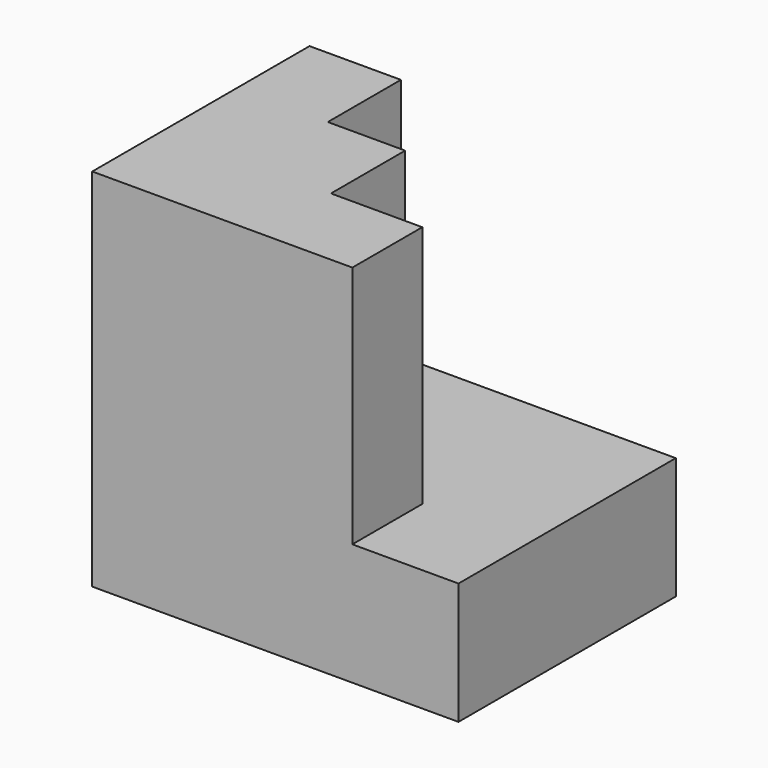
from build123d import *

# Parameters (mm, degrees)
F0_W     = 152.721792
F0_H     = 113.2574
F1_DEPTH = 152.4
F3_DEPTH = 101.6


with BuildPart() as f1:
    # F0 (on Top) → F1 (new body)
    with BuildSketch(Plane.XY):
        Rectangle(F0_W, F0_H)
    extrude(amount=F1_DEPTH)

    # F2 (on face) → F3 (cut)
    with BuildSketch(Plane.XY.offset(152.4)):
        Polygon((76.360896, 56.6287), (-38.260896, 56.6287), (-38.260896, 18.5287), (-5.999443, 18.5287), (-5.999443, -20.162446), (32.100557, -20.162446), (32.100557, -56.6287), (76.360896, -56.6287), align=None)
    extrude(amount=-F3_DEPTH, mode=Mode.SUBTRACT)


solid = f1.part
